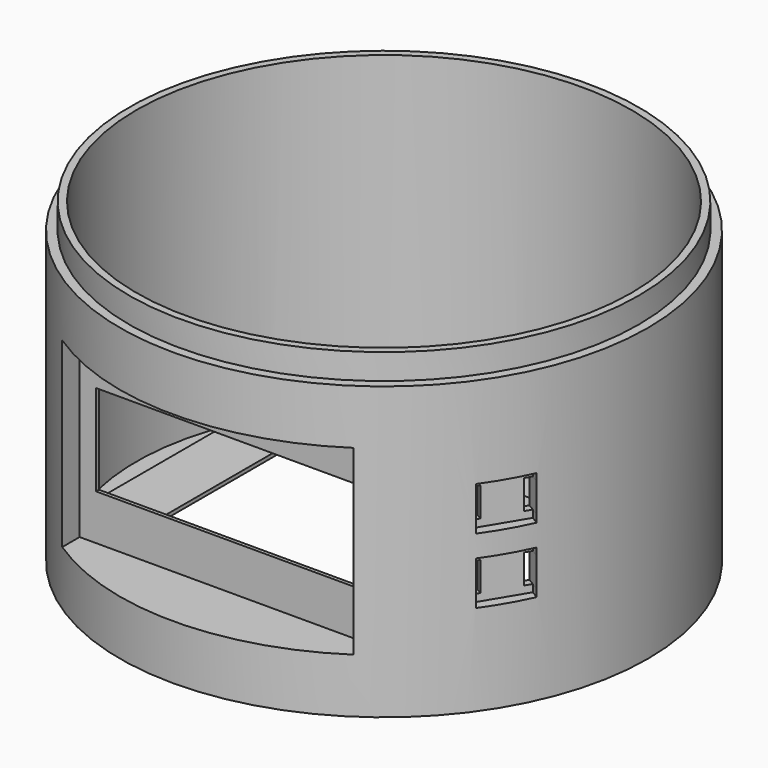
from build123d import *

# Parameters (mm, degrees)
CYLINDER004_R          = 1.5
CYLINDER004_DEPTH      = 10
CYLINDER004_ROLL_ANGLE = 90
CYLINDER003_R          = 1.5
CYLINDER003_DEPTH      = 10
CYLINDER003_ROLL_ANGLE = 90
BOX016_W               = 22.5
BOX016_H               = 13
BOX016_DEPTH           = 13
BOX015_W               = 38
BOX015_H               = 10
BOX015_DEPTH           = 13
BOX013_W               = 98.5
BOX013_H               = 62
BOX013_DEPTH           = 10
BOX012_W               = 114.5
BOX012_H               = 66
BOX012_DEPTH           = 4
BOX014_W               = 118.5
BOX014_H               = 70
BOX014_DEPTH           = 5
BOX010_W               = 2
BOX010_H               = 10
BOX010_DEPTH           = 8
BOX010_PLACEMENT_ANGLE = 59
BOX011_W               = 2
BOX011_H               = 10
BOX011_DEPTH           = 8
BOX011_PLACEMENT_ANGLE = 59
BOX009_W               = 2
BOX009_H               = 10
BOX009_DEPTH           = 8
BOX009_PLACEMENT_ANGLE = 59
BOX008_W               = 2
BOX008_H               = 10
BOX008_DEPTH           = 8
BOX008_PLACEMENT_ANGLE = 59
BOX007_W               = 10
BOX007_H               = 45
BOX007_DEPTH           = 50
BOX006_W               = 14
BOX006_H               = 12
BOX006_DEPTH           = 12
BOX006_PLACEMENT_ANGLE = 59
BOX004_W               = 14
BOX004_H               = 12
BOX004_DEPTH           = 12
BOX004_PLACEMENT_ANGLE = 59
BOX002_W               = 71
BOX002_H               = 10
BOX002_DEPTH           = 25
BOX001_W               = 80
BOX001_H               = 30
BOX001_DEPTH           = 50
BOX_W                  = 84
BOX_H                  = 30
BOX_DEPTH              = 70
CYLINDER001_R          = 70
CYLINDER001_DEPTH      = 87
CYLINDER_R             = 72.5
CYLINDER_DEPTH         = 80
CYLINDER002_R          = 68
CYLINDER002_DEPTH      = 85


with BuildPart() as screwcutout002:
    # Cylinder004 → Cylinder004 (new body)
    with BuildSketch(Plane.XY):
        Circle(CYLINDER004_R)
    extrude(amount=CYLINDER004_DEPTH)


with BuildPart() as screwcutout002_1:
    # Cylinder004 roll: moved
    add(screwcutout002.part.rotate(Axis((0, 0, 0), (1, 0, 0)), CYLINDER004_ROLL_ANGLE))


with BuildPart() as screwcutout002_2:
    # Cylinder004 placement: moved
    add(screwcutout002_1.part.moved(Location((-15, 73, 14.5))))


with BuildPart() as screwcutout1:
    # Cylinder003 → Cylinder003 (new body)
    with BuildSketch(Plane.XY):
        Circle(CYLINDER003_R)
    extrude(amount=CYLINDER003_DEPTH)


with BuildPart() as screwcutout1_1:
    # Cylinder003 roll: moved
    add(screwcutout1.part.rotate(Axis((0, 0, 0), (1, 0, 0)), CYLINDER003_ROLL_ANGLE))


with BuildPart() as screwcutout1_2:
    # Cylinder003 placement: moved
    add(screwcutout1_1.part.moved(Location((15, 73, 14.5))))


with BuildPart() as powercutout:
    # Box016 → Box016 (new body)
    with BuildSketch(Plane(origin=(-11.25, 63, 8), x_dir=(1, 0, 0), z_dir=(0, 0, 1))):
        with Locations((11.25, 6.5)):
            Rectangle(BOX016_W, BOX016_H)
    extrude(amount=BOX016_DEPTH)


with BuildPart() as powerswitch:
    # Box015 → Box015 (new body)
    with BuildSketch(Plane(origin=(-19, 70, 8), x_dir=(1, 0, 0), z_dir=(0, 0, 1))):
        with Locations((19, 5)):
            Rectangle(BOX015_W, BOX015_H)
    extrude(amount=BOX015_DEPTH)


with BuildPart() as battery_cutout:
    # Box013 → Box013 (new body)
    with BuildSketch(Plane(origin=(-44, -31, 0), x_dir=(1, 0, 0), z_dir=(0, 0, 1))):
        with Locations((49.25, 31)):
            Rectangle(BOX013_W, BOX013_H)
    extrude(amount=BOX013_DEPTH)


with BuildPart() as battery_cutout001:
    # Box012 → Box012 (new body)
    with BuildSketch(Plane(origin=(-58, -33, 0), x_dir=(1, 0, 0), z_dir=(0, 0, 1))):
        with Locations((57.25, 33)):
            Rectangle(BOX012_W, BOX012_H)
    extrude(amount=BOX012_DEPTH)


with BuildPart() as obj1:
    # Box014 → Box014 (new body)
    with BuildSketch(Plane(origin=(-60, -35, 0), x_dir=(1, 0, 0), z_dir=(0, 0, 1))):
        with Locations((59.25, 35)):
            Rectangle(BOX014_W, BOX014_H)
    extrude(amount=BOX014_DEPTH)


with BuildPart() as pin2_cutout001:
    # Box010 → Box010 (new body)
    with BuildSketch(Plane.XY):
        with Locations((1, 5)):
            Rectangle(BOX010_W, BOX010_H)
    extrude(amount=BOX010_DEPTH)


with BuildPart() as pin2_cutout001_1:
    # Box010 placement: moved
    add(pin2_cutout001.part.moved(Location((67, -33, 45))).rotate(Axis((67, -33, 45), (0, 0, 1)), BOX010_PLACEMENT_ANGLE))


with BuildPart() as pin1_cutout001:
    # Box011 → Box011 (new body)
    with BuildSketch(Plane.XY):
        with Locations((1, 5)):
            Rectangle(BOX011_W, BOX011_H)
    extrude(amount=BOX011_DEPTH)


with BuildPart() as pin1_cutout001_1:
    # Box011 placement: moved
    add(pin1_cutout001.part.moved(Location((62, -44, 45))).rotate(Axis((62, -44, 45), (0, 0, 1)), BOX011_PLACEMENT_ANGLE))


with BuildPart() as pin2_cutout:
    # Box009 → Box009 (new body)
    with BuildSketch(Plane.XY):
        with Locations((1, 5)):
            Rectangle(BOX009_W, BOX009_H)
    extrude(amount=BOX009_DEPTH)


with BuildPart() as pin2_cutout_1:
    # Box009 placement: moved
    add(pin2_cutout.part.moved(Location((67, -33, 27))).rotate(Axis((67, -33, 27), (0, 0, 1)), BOX009_PLACEMENT_ANGLE))


with BuildPart() as pin1_cutout:
    # Box008 → Box008 (new body)
    with BuildSketch(Plane.XY):
        with Locations((1, 5)):
            Rectangle(BOX008_W, BOX008_H)
    extrude(amount=BOX008_DEPTH)


with BuildPart() as pin1_cutout_1:
    # Box008 placement: moved
    add(pin1_cutout.part.moved(Location((62, -44, 27))).rotate(Axis((62, -44, 27), (0, 0, 1)), BOX008_PLACEMENT_ANGLE))


with BuildPart() as rfid_cutout:
    # Box007 → Box007 (new body)
    with BuildSketch(Plane(origin=(-79, -22.5, 15), x_dir=(1, 0, 0), z_dir=(0, 0, 1))):
        with Locations((5, 22.5)):
            Rectangle(BOX007_W, BOX007_H)
    extrude(amount=BOX007_DEPTH)


with BuildPart() as box006:
    # Box006 → Box006 (new body)
    with BuildSketch(Plane.XY):
        with Locations((7, 6)):
            Rectangle(BOX006_W, BOX006_H)
    extrude(amount=BOX006_DEPTH)


with BuildPart() as box006_1:
    # Box006 placement: moved
    add(box006.part.moved(Location((67, -47, 25))).rotate(Axis((67, -47, 25), (0, 0, 1)), BOX006_PLACEMENT_ANGLE))


with BuildPart() as box004:
    # Box004 → Box004 (new body)
    with BuildSketch(Plane.XY):
        with Locations((7, 6)):
            Rectangle(BOX004_W, BOX004_H)
    extrude(amount=BOX004_DEPTH)


with BuildPart() as box004_1:
    # Box004 placement: moved
    add(box004.part.moved(Location((67, -47, 43))).rotate(Axis((67, -47, 43), (0, 0, 1)), BOX004_PLACEMENT_ANGLE))


with BuildPart() as obj2:
    # Box002 → Box002 (new body)
    with BuildSketch(Plane(origin=(-35.5, -59, 27.5), x_dir=(1, 0, 0), z_dir=(0, 0, 1))):
        with Locations((35.5, 5)):
            Rectangle(BOX002_W, BOX002_H)
    extrude(amount=BOX002_DEPTH)


with BuildPart() as display_cutout_big:
    # Box001 → Box001 (new body)
    with BuildSketch(Plane(origin=(-40, -84.5, 15), x_dir=(1, 0, 0), z_dir=(0, 0, 1))):
        with Locations((40, 15)):
            Rectangle(BOX001_W, BOX001_H)
    extrude(amount=BOX001_DEPTH)


with BuildPart() as obj3:
    # Box → Box (new body)
    with BuildSketch(Plane(origin=(-42, -83.5, 0), x_dir=(1, 0, 0), z_dir=(0, 0, 1))):
        with Locations((42, 15)):
            Rectangle(BOX_W, BOX_H)
    extrude(amount=BOX_DEPTH)


with BuildPart() as wall:
    # Cylinder001 → Cylinder001 (new body)
    with BuildSketch(Plane.XY):
        Circle(CYLINDER001_R)
    extrude(amount=CYLINDER001_DEPTH)


with BuildPart() as fusion:
    # Cylinder → Cylinder (new body)
    with BuildSketch(Plane.XY):
        Circle(CYLINDER_R)
    extrude(amount=CYLINDER_DEPTH)

    # Fusion: union wall
    add(wall.part)


with BuildPart() as common:
    # Common base: copy of Fusion
    add(fusion.part)

    # Common: intersect obj3
    add(obj3.part, mode=Mode.INTERSECT)


with BuildPart() as base_cutout:
    # Cylinder002 → Cylinder002 (new body)
    with BuildSketch(Plane.XY.offset(2)):
        Circle(CYLINDER002_R)
    extrude(amount=CYLINDER002_DEPTH)


with BuildPart() as cut016:
    # Cut base: copy of Fusion
    add(fusion.part)

    # Cut: cut base_cutout
    add(base_cutout.part, mode=Mode.SUBTRACT)

    # Fusion001: union Common
    add(common.part)

    # Cut001: cut display_cutout_big
    add(display_cutout_big.part, mode=Mode.SUBTRACT)

    # Cut002: cut obj2
    add(obj2.part, mode=Mode.SUBTRACT)

    # Cut003: cut Box004
    add(box004_1.part, mode=Mode.SUBTRACT)

    # Cut004: cut Box006
    add(box006_1.part, mode=Mode.SUBTRACT)

    # Cut005: cut rfid_cutout
    add(rfid_cutout.part, mode=Mode.SUBTRACT)

    # Cut006: cut pin1_cutout
    add(pin1_cutout_1.part, mode=Mode.SUBTRACT)

    # Cut007: cut pin2_cutout
    add(pin2_cutout_1.part, mode=Mode.SUBTRACT)

    # Cut008: cut pin1_cutout001
    add(pin1_cutout001_1.part, mode=Mode.SUBTRACT)

    # Cut009: cut pin2_cutout001
    add(pin2_cutout001_1.part, mode=Mode.SUBTRACT)

    # Fusion002: union obj1
    add(obj1.part)

    # Cut010: cut battery_cutout001
    add(battery_cutout001.part, mode=Mode.SUBTRACT)

    # Cut011: cut battery_cutout
    add(battery_cutout.part, mode=Mode.SUBTRACT)

    # Cut012: cut PowerSwitch
    add(powerswitch.part, mode=Mode.SUBTRACT)

    # Cut013: cut PowerSwitch
    add(powerswitch.part, mode=Mode.SUBTRACT)

    # Cut014: cut PowerCutout
    add(powercutout.part, mode=Mode.SUBTRACT)

    # Cut015: cut ScrewCutout1
    add(screwcutout1_2.part, mode=Mode.SUBTRACT)

    # Cut016: cut ScrewCutout002
    add(screwcutout002_2.part, mode=Mode.SUBTRACT)


solid = cut016.part
